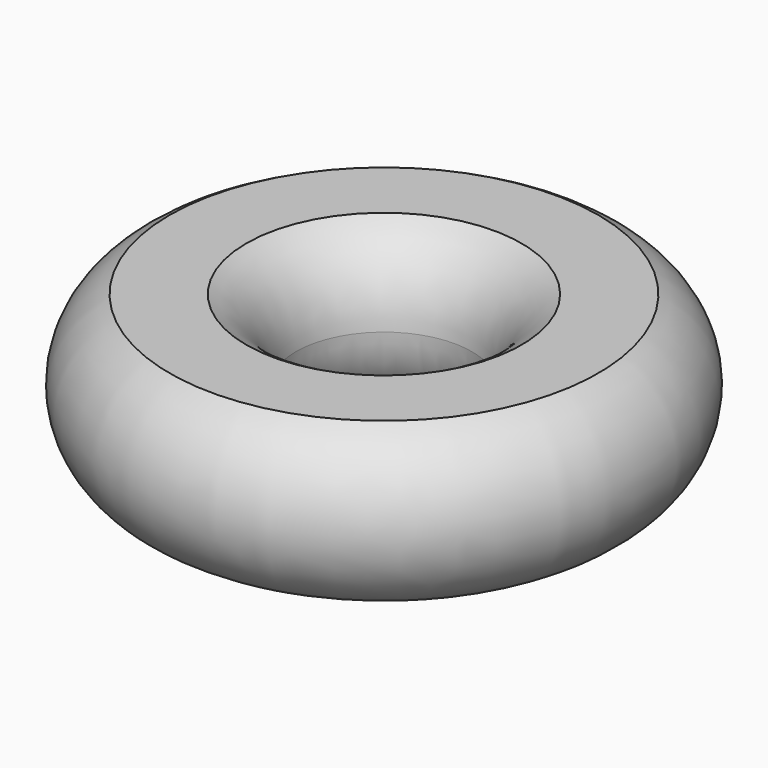
from build123d import *

# Parameters (mm, degrees)
F0_R = 12.7
F2_W = 31.75
F2_H = 12.7


with BuildPart() as f1:
    # F0 (on Front) → F1 (revolve)
    with BuildSketch(Plane.XZ):
        with Locations((-25.4, 0)):
            Circle(F0_R)
    revolve(axis=Axis((0, 0, 22.959797), (0, 0, 1)))

    # F2 (on Front) → F3 (revolve, cut)
    with BuildSketch(Plane.XZ):
        with Locations((-26.035, 17.78)):
            Rectangle(F2_W, F2_H)
    revolve(axis=Axis((0, 0, 8.946116), (0, 0, 1)), mode=Mode.SUBTRACT)


solid = f1.part
